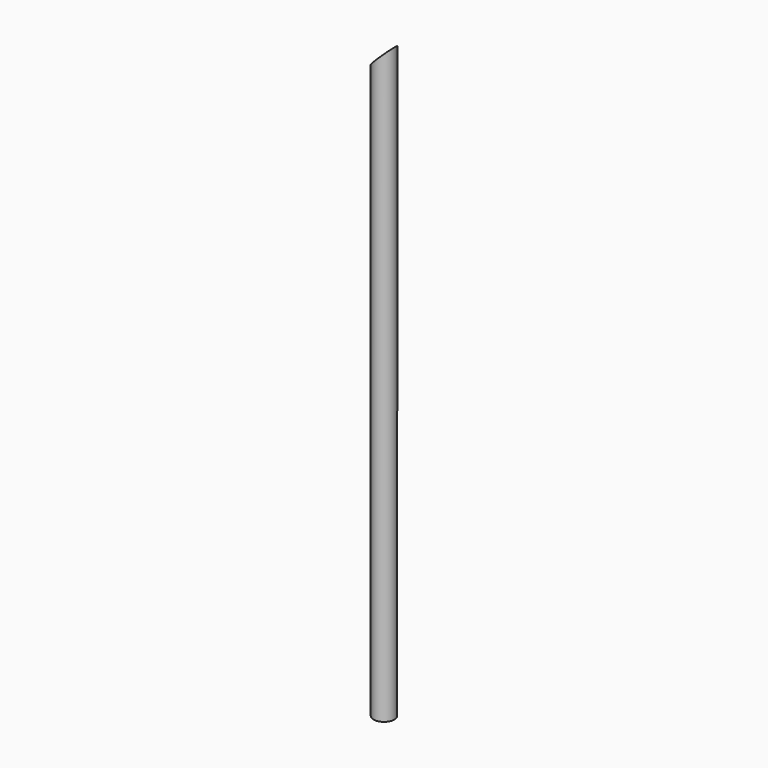
from build123d import *

# Parameters (mm, degrees)
F0_R     = 3.5
F1_DEPTH = 200
F2_R     = 3.5
F4_W     = 24.0166783333
F4_H     = 13.9498142526
F5_DEPTH = 25


with BuildPart() as f1:
    # F0 (on Top) → F1 (new body)
    with BuildSketch(Plane.XY):
        Circle(F0_R)
    extrude(amount=F1_DEPTH)

    # F2 (on face) + F4 (on line) → F5 (cut)
    with BuildSketch(Plane.XY.offset(200)):
        Circle(F2_R)
    with BuildSketch(Plane(origin=(-98.25, 0, 98.25), x_dir=(0.7071067812, 0, 0.7071067812), z_dir=(0.7071067812, 0, -0.7071067812))):
        with Locations((143.7508314848, 0)):
            Rectangle(F4_W, F4_H)
    extrude(amount=F5_DEPTH, dir=(0, 0, 1), mode=Mode.SUBTRACT)


solid = f1.part
